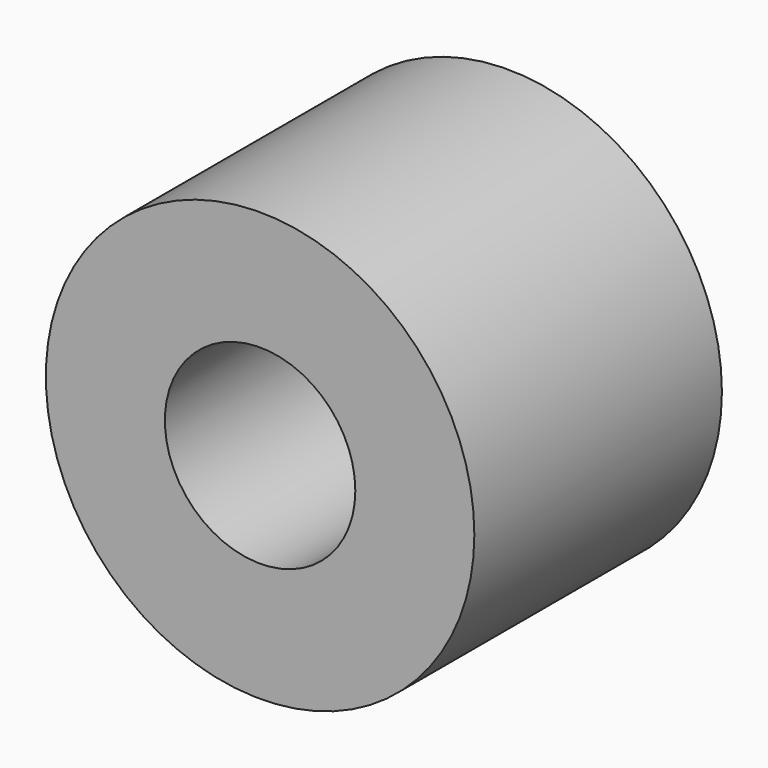
from build123d import *

# Parameters (mm, degrees)
CYLINDER174_R          = 0.4
CYLINDER174_DEPTH      = 1.3
CYLINDER175_R          = 0.9
CYLINDER175_DEPTH      = 1.3
CUT117_PLACEMENT_ANGLE = 90


with BuildPart() as cylinder174:
    # Cylinder174 → Cylinder174 (new body)
    with BuildSketch(Plane.XY):
        Circle(CYLINDER174_R)
    extrude(amount=CYLINDER174_DEPTH)


with BuildPart() as contact002:
    # Cylinder175 → Cylinder175 (new body)
    with BuildSketch(Plane.XY):
        Circle(CYLINDER175_R)
    extrude(amount=CYLINDER175_DEPTH)

    # Cut117: cut Cylinder174
    add(cylinder174.part, mode=Mode.SUBTRACT)


with BuildPart() as contact002_1:
    # Cut117 placement: moved
    add(contact002.part.moved(Location((-12.08, 1.3, -17))).rotate(Axis((-12.08, 1.3, -17), (1, 0, 0)), CUT117_PLACEMENT_ANGLE))


solid = contact002_1.part
